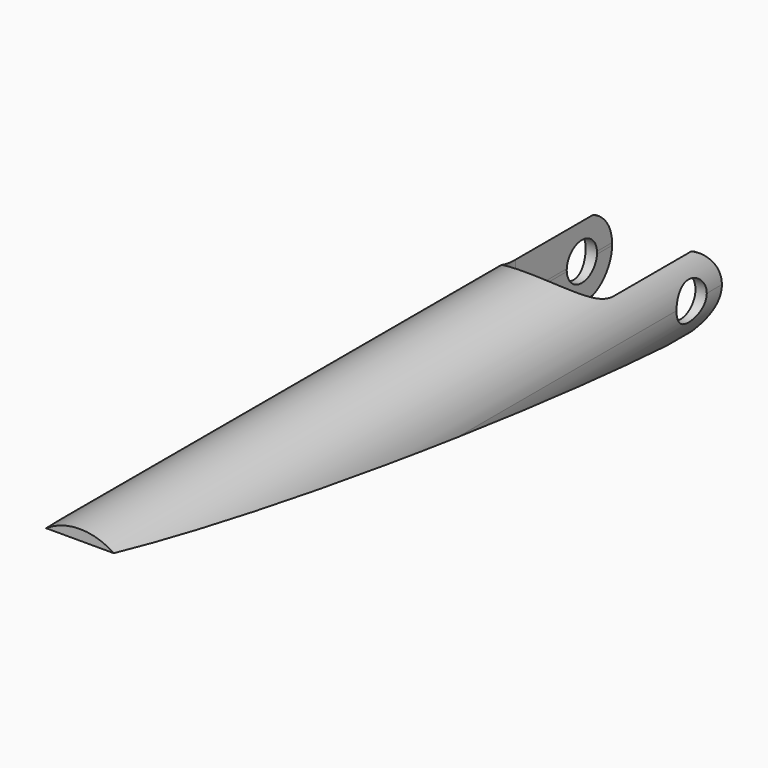
from build123d import *

# Parameters (mm, degrees)
F0_R          = 12.7
F0_R_2        = 10.31875
F1_DEPTH      = 152.4
F2_R          = 3.96875
F3_DEPTH      = 25.4
F3_DEPTH_BACK = 25.4
F5_DEPTH      = 12.7
F7_DEPTH      = 12.7
F8_W          = 20.6375
F8_H          = 12.7
F9_DEPTH      = 127
F11_DEPTH     = 12.7


with BuildPart() as f1:
    # F0 (on Front) → F1 (new body)
    with BuildSketch(Plane.XZ):
        Circle(F0_R)
        Circle(F0_R_2, mode=Mode.SUBTRACT)
    extrude(amount=F1_DEPTH)

    # F2 (on Right) → F3 (cut, two sides)
    with BuildSketch(Plane.YZ) as f3_sk:
        with Locations((-7.9375, 0)):
            Circle(F2_R)
    extrude(amount=F3_DEPTH, mode=Mode.SUBTRACT)
    extrude(f3_sk.sketch, amount=-F3_DEPTH_BACK, mode=Mode.SUBTRACT)

    # F4 (on Top) → F5 (cut, symmetric)
    with BuildSketch(Plane.XY):
        with BuildLine():
            Line((-10.315392, 0), (-10.315392, -25.4))
            ThreePointArc((-10.315392, -25.4), (0.001679, -35.717071), (10.31875, -25.4))
            Line((10.31875, -25.4), (10.31875, 0))
            Line((10.31875, 0), (-10.315392, 0))
        make_face()
    extrude(amount=F5_DEPTH, both=True, mode=Mode.SUBTRACT)

    # F6 (on Right) → F7 (cut, symmetric)
    with BuildSketch(Plane.YZ):
        Polygon((-11.90625, -7.313158), (-152.4, 10.53286), (-152.4, -12.869733), (-11.961568, -12.869733), align=None)
    extrude(amount=F7_DEPTH, both=True, mode=Mode.SUBTRACT)

    # F8 (on Front) → F9 (cut)
    with BuildSketch(Plane.XZ):
        with Locations((0.022642, -6.35)):
            Rectangle(F8_W, F8_H)
    extrude(amount=F9_DEPTH, mode=Mode.SUBTRACT)

    # F10 (on Right) → F11 (cut, symmetric)
    with BuildSketch(Plane.YZ):
        with BuildLine():
            ThreePointArc((-7.9375, 7.9375), (-2.32484, 5.61266), (0, 0))
            Line((0, 0), (0, 7.9375))
            Line((0, 7.9375), (-7.9375, 7.9375))
        make_face()
        with BuildLine():
            ThreePointArc((0, 0), (-2.32484, -5.61266), (-7.9375, -7.9375))
            Line((-7.9375, -7.9375), (0, -7.9375))
            Line((0, -7.9375), (0, 0))
        make_face()
    extrude(amount=F11_DEPTH, both=True, mode=Mode.SUBTRACT)


solid = f1.part
